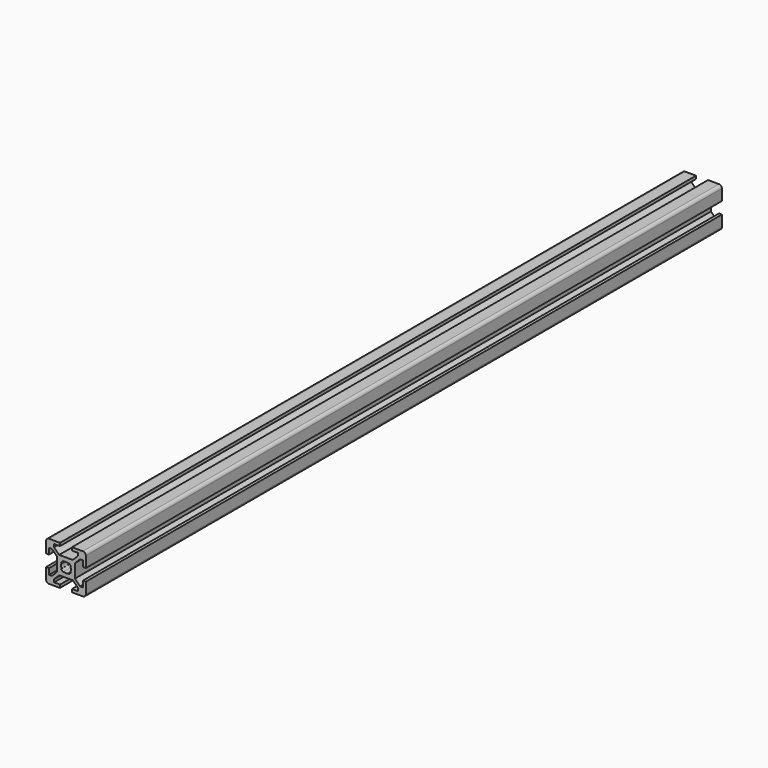
from build123d import *

# Parameters (mm, degrees)
F1_DEPTH = 400


with BuildPart() as f1:
    # F0 (on Front) → F1 (new body)
    with BuildSketch(Plane.XZ):
        with BuildLine():
            Line((3, -10), (8.5, -10))
            ThreePointArc((8.5, -10), (9.5606601718, -9.5606601718), (10, -8.5))
            Line((10, -8.5), (10, -3))
            Line((10, -3), (8.5, -3))
            Line((8.5, -3), (8.5, -6))
            Line((8.5, -6), (7.0606601718, -6))
            Line((7.0606601718, -6), (4.5, -3.4393398282))
            Line((4.5, -3.4393398282), (4.5, 3.4393398282))
            Line((4.5, 3.4393398282), (7.0606601718, 6))
            Line((7.0606601718, 6), (8.5, 6))
            Line((8.5, 6), (8.5, 3))
            Line((8.5, 3), (10, 3))
            Line((10, 3), (10, 8.5))
            ThreePointArc((10, 8.5), (9.5606601718, 9.5606601718), (8.5, 10))
            Line((8.5, 10), (3, 10))
            Line((3, 10), (3, 8.5))
            Line((3, 8.5), (6, 8.5))
            Line((6, 8.5), (6, 7.0606601718))
            Line((6, 7.0606601718), (3.4393398282, 4.5))
            Line((3.4393398282, 4.5), (-3.4393398282, 4.5))
            Line((-3.4393398282, 4.5), (-6, 7.0606601718))
            Line((-6, 7.0606601718), (-6, 8.5))
            Line((-6, 8.5), (-3, 8.5))
            Line((-3, 8.5), (-3, 10))
            Line((-3, 10), (-8.5, 10))
            ThreePointArc((-8.5, 10), (-9.5606601718, 9.5606601718), (-10, 8.5))
            Line((-10, 8.5), (-10, 3))
            Line((-10, 3), (-8.5, 3))
            Line((-8.5, 3), (-8.5, 6))
            Line((-8.5, 6), (-7.0606601718, 6))
            Line((-7.0606601718, 6), (-4.5, 3.4393398282))
            Line((-4.5, 3.4393398282), (-4.5, -3.4393398282))
            Line((-4.5, -3.4393398282), (-7.0606601718, -6))
            Line((-7.0606601718, -6), (-8.5, -6))
            Line((-8.5, -6), (-8.5, -3))
            Line((-8.5, -3), (-10, -3))
            Line((-10, -3), (-10, -8.5))
            ThreePointArc((-10, -8.5), (-9.5606601718, -9.5606601718), (-8.5, -10))
            Line((-8.5, -10), (-3, -10))
            Line((-3, -10), (-3, -8.5))
            Line((-3, -8.5), (-6, -8.5))
            Line((-6, -8.5), (-6, -7.0606601718))
            Line((-6, -7.0606601718), (-3.4393398282, -4.5))
            Line((-3.4393398282, -4.5), (3.4393398282, -4.5))
            Line((3.4393398282, -4.5), (6, -7.0606601718))
            Line((6, -7.0606601718), (6, -8.5))
            Line((6, -8.5), (3, -8.5))
            Line((3, -8.5), (3, -10))
        make_face()
        with BuildLine():
            ThreePointArc((-1.1560121095, 2.2166722813), (0, 2.5), (1.1560121095, 2.2166722813))
            Line((1.1560121095, 2.2166722813), (1.4393398282, 2.5))
            Line((1.4393398282, 2.5), (2.5, 1.4393398282))
            Line((2.5, 1.4393398282), (2.2166722813, 1.1560121095))
            ThreePointArc((2.2166722813, 1.1560121095), (2.5, 0), (2.2166722813, -1.1560121095))
            Line((2.2166722813, -1.1560121095), (2.5, -1.4393398282))
            Line((2.5, -1.4393398282), (1.4393398282, -2.5))
            Line((1.4393398282, -2.5), (1.1560121095, -2.2166722813))
            ThreePointArc((1.1560121095, -2.2166722813), (0, -2.5), (-1.1560121095, -2.2166722813))
            Line((-1.1560121095, -2.2166722813), (-1.4393398282, -2.5))
            Line((-1.4393398282, -2.5), (-2.5, -1.4393398282))
            Line((-2.5, -1.4393398282), (-2.2166722813, -1.1560121095))
            ThreePointArc((-2.2166722813, -1.1560121095), (-2.5, 0), (-2.2166722813, 1.1560121095))
            Line((-2.2166722813, 1.1560121095), (-2.5, 1.4393398282))
            Line((-2.5, 1.4393398282), (-1.4393398282, 2.5))
            Line((-1.4393398282, 2.5), (-1.1560121095, 2.2166722813))
        make_face(mode=Mode.SUBTRACT)
    extrude(amount=F1_DEPTH)


solid = f1.part
